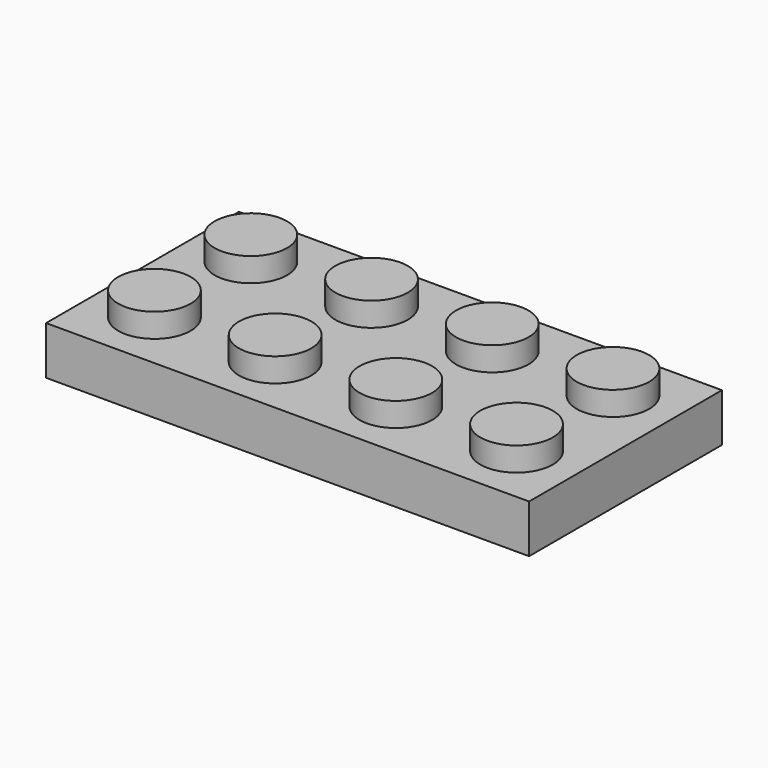
from build123d import *

# Parameters (mm, degrees)
F1_DEPTH = 3.175
F2_DEPTH = 4.7498
F3_T     = -1.6002


with BuildPart() as f1:
    # F0 (on Top) → F1 (new body)
    with BuildSketch(Plane.XY):
        with BuildLine():
            Line((-6.9955831819, 8.5962191019), (-38.8090831819, 8.5962191019))
            Line((-38.8090831819, 8.5962191019), (-38.8090831819, 4.6274691019))
            Line((-38.8090831819, 4.6274691019), (-37.2342831819, 4.6274691019))
            ThreePointArc((-37.2342831819, 4.6274691019), (-34.8466831819, 7.0150691019), (-32.4590831819, 4.6274691019))
            Line((-32.4590831819, 4.6274691019), (-29.2840831819, 4.6274691019))
            ThreePointArc((-29.2840831819, 4.6274691019), (-26.8964831819, 7.0150691019), (-24.5088831819, 4.6274691019))
            Line((-24.5088831819, 4.6274691019), (-21.3338831819, 4.6274691019))
            ThreePointArc((-21.3338831819, 4.6274691019), (-18.9462831819, 7.0150691019), (-16.5586831819, 4.6274691019))
            Line((-16.5586831819, 4.6274691019), (-13.3836831819, 4.6274691019))
            ThreePointArc((-13.3836831819, 4.6274691019), (-10.9960831819, 7.0150691019), (-8.6084831819, 4.6274691019))
            Line((-8.6084831819, 4.6274691019), (-6.9955831819, 4.6274691019))
            Line((-6.9955831819, 4.6274691019), (-6.9955831819, 8.5962191019))
        make_face()
        with BuildLine():
            Line((-37.2342831819, 4.6274691019), (-38.8090831819, 4.6274691019))
            Line((-38.8090831819, 4.6274691019), (-38.8090831819, 0.6587191019))
            Line((-38.8090831819, 0.6587191019), (-6.9955831819, 0.6587191019))
            Line((-6.9955831819, 0.6587191019), (-6.9955831819, 4.6274691019))
            Line((-6.9955831819, 4.6274691019), (-8.6084831819, 4.6274691019))
            ThreePointArc((-8.6084831819, 4.6274691019), (-10.9960831819, 2.2398691019), (-13.3836831819, 4.6274691019))
            Line((-13.3836831819, 4.6274691019), (-16.5586831819, 4.6274691019))
            ThreePointArc((-16.5586831819, 4.6274691019), (-18.9462831819, 2.2398691019), (-21.3338831819, 4.6274691019))
            Line((-21.3338831819, 4.6274691019), (-24.5088831819, 4.6274691019))
            ThreePointArc((-24.5088831819, 4.6274691019), (-26.8964831819, 2.2398691019), (-29.2840831819, 4.6274691019))
            Line((-29.2840831819, 4.6274691019), (-32.4590831819, 4.6274691019))
            ThreePointArc((-32.4590831819, 4.6274691019), (-34.8466831819, 2.2398691019), (-37.2342831819, 4.6274691019))
        make_face()
        with BuildLine():
            Line((-37.2342831819, -3.3100308981), (-38.8090831819, -3.3100308981))
            Line((-38.8090831819, -3.3100308981), (-38.8090831819, -7.2787808981))
            Line((-38.8090831819, -7.2787808981), (-6.9955831819, -7.2787808981))
            Line((-6.9955831819, -7.2787808981), (-6.9955831819, -3.3100308981))
            Line((-6.9955831819, -3.3100308981), (-8.6084831819, -3.3100308981))
            ThreePointArc((-8.6084831819, -3.3100308981), (-10.9960831819, -5.6976308981), (-13.3836831819, -3.3100308981))
            Line((-13.3836831819, -3.3100308981), (-16.5586831819, -3.3100308981))
            ThreePointArc((-16.5586831819, -3.3100308981), (-18.9462831819, -5.6976308981), (-21.3338831819, -3.3100308981))
            Line((-21.3338831819, -3.3100308981), (-24.5088831819, -3.3100308981))
            ThreePointArc((-24.5088831819, -3.3100308981), (-26.8964831819, -5.6976308981), (-29.2840831819, -3.3100308981))
            Line((-29.2840831819, -3.3100308981), (-32.4590831819, -3.3100308981))
            ThreePointArc((-32.4590831819, -3.3100308981), (-34.8466831819, -5.6976308981), (-37.2342831819, -3.3100308981))
        make_face()
        with BuildLine():
            Line((-6.9955831819, 0.6587191019), (-38.8090831819, 0.6587191019))
            Line((-38.8090831819, 0.6587191019), (-38.8090831819, -3.3100308981))
            Line((-38.8090831819, -3.3100308981), (-37.2342831819, -3.3100308981))
            ThreePointArc((-37.2342831819, -3.3100308981), (-34.8466831819, -0.9224308981), (-32.4590831819, -3.3100308981))
            Line((-32.4590831819, -3.3100308981), (-29.2840831819, -3.3100308981))
            ThreePointArc((-29.2840831819, -3.3100308981), (-26.8964831819, -0.9224308981), (-24.5088831819, -3.3100308981))
            Line((-24.5088831819, -3.3100308981), (-21.3338831819, -3.3100308981))
            ThreePointArc((-21.3338831819, -3.3100308981), (-18.9462831819, -0.9224308981), (-16.5586831819, -3.3100308981))
            Line((-16.5586831819, -3.3100308981), (-13.3836831819, -3.3100308981))
            ThreePointArc((-13.3836831819, -3.3100308981), (-10.9960831819, -0.9224308981), (-8.6084831819, -3.3100308981))
            Line((-8.6084831819, -3.3100308981), (-6.9955831819, -3.3100308981))
            Line((-6.9955831819, -3.3100308981), (-6.9955831819, 0.6587191019))
        make_face()
    extrude(amount=F1_DEPTH)

    # F0 (on Top) → F2 (join)
    with BuildSketch(Plane.XY):
        with BuildLine():
            Line((-32.4590831819, 4.6274691019), (-37.2342831819, 4.6274691019))
            ThreePointArc((-37.2342831819, 4.6274691019), (-34.8466831819, 2.2398691019), (-32.4590831819, 4.6274691019))
        make_face()
        with BuildLine():
            ThreePointArc((-32.4590831819, 4.6274691019), (-34.8466831819, 7.0150691019), (-37.2342831819, 4.6274691019))
            Line((-37.2342831819, 4.6274691019), (-32.4590831819, 4.6274691019))
        make_face()
        with BuildLine():
            ThreePointArc((-32.4590831819, -3.3100308981), (-34.8466831819, -0.9224308981), (-37.2342831819, -3.3100308981))
            Line((-37.2342831819, -3.3100308981), (-32.4590831819, -3.3100308981))
        make_face()
        with BuildLine():
            Line((-32.4590831819, -3.3100308981), (-37.2342831819, -3.3100308981))
            ThreePointArc((-37.2342831819, -3.3100308981), (-34.8466831819, -5.6976308981), (-32.4590831819, -3.3100308981))
        make_face()
        with BuildLine():
            Line((-24.5088831819, -3.3100308981), (-29.2840831819, -3.3100308981))
            ThreePointArc((-29.2840831819, -3.3100308981), (-26.8964831819, -5.6976308981), (-24.5088831819, -3.3100308981))
        make_face()
        with BuildLine():
            ThreePointArc((-24.5088831819, -3.3100308981), (-26.8964831819, -0.9224308981), (-29.2840831819, -3.3100308981))
            Line((-29.2840831819, -3.3100308981), (-24.5088831819, -3.3100308981))
        make_face()
        with BuildLine():
            Line((-24.5088831819, 4.6274691019), (-29.2840831819, 4.6274691019))
            ThreePointArc((-29.2840831819, 4.6274691019), (-26.8964831819, 2.2398691019), (-24.5088831819, 4.6274691019))
        make_face()
        with BuildLine():
            ThreePointArc((-24.5088831819, 4.6274691019), (-26.8964831819, 7.0150691019), (-29.2840831819, 4.6274691019))
            Line((-29.2840831819, 4.6274691019), (-24.5088831819, 4.6274691019))
        make_face()
        with BuildLine():
            ThreePointArc((-21.3338831819, -3.3100308981), (-18.9462831819, -5.6976308981), (-16.5586831819, -3.3100308981))
            Line((-16.5586831819, -3.3100308981), (-21.3338831819, -3.3100308981))
        make_face()
        with BuildLine():
            Line((-21.3338831819, -3.3100308981), (-16.5586831819, -3.3100308981))
            ThreePointArc((-16.5586831819, -3.3100308981), (-18.9462831819, -0.9224308981), (-21.3338831819, -3.3100308981))
        make_face()
        with BuildLine():
            Line((-21.3338831819, 4.6274691019), (-16.5586831819, 4.6274691019))
            ThreePointArc((-16.5586831819, 4.6274691019), (-18.9462831819, 7.0150691019), (-21.3338831819, 4.6274691019))
        make_face()
        with BuildLine():
            ThreePointArc((-21.3338831819, 4.6274691019), (-18.9462831819, 2.2398691019), (-16.5586831819, 4.6274691019))
            Line((-16.5586831819, 4.6274691019), (-21.3338831819, 4.6274691019))
        make_face()
        with BuildLine():
            Line((-13.3836831819, -3.3100308981), (-8.6084831819, -3.3100308981))
            ThreePointArc((-8.6084831819, -3.3100308981), (-10.9960831819, -0.9224308981), (-13.3836831819, -3.3100308981))
        make_face()
        with BuildLine():
            ThreePointArc((-13.3836831819, -3.3100308981), (-10.9960831819, -5.6976308981), (-8.6084831819, -3.3100308981))
            Line((-8.6084831819, -3.3100308981), (-13.3836831819, -3.3100308981))
        make_face()
        with BuildLine():
            ThreePointArc((-13.3836831819, 4.6274691019), (-10.9960831819, 2.2398691019), (-8.6084831819, 4.6274691019))
            Line((-8.6084831819, 4.6274691019), (-13.3836831819, 4.6274691019))
        make_face()
        with BuildLine():
            Line((-13.3836831819, 4.6274691019), (-8.6084831819, 4.6274691019))
            ThreePointArc((-8.6084831819, 4.6274691019), (-10.9960831819, 7.0150691019), (-13.3836831819, 4.6274691019))
        make_face()
    extrude(amount=F2_DEPTH)

    # F3
    f3_openings = [f1.faces().sort_by_distance(p)[0] for p in [
        (-22.902333, 0.658719, 0),
    ]]
    offset(amount=F3_T, openings=f3_openings, kind=Kind.INTERSECTION)


solid = f1.part
